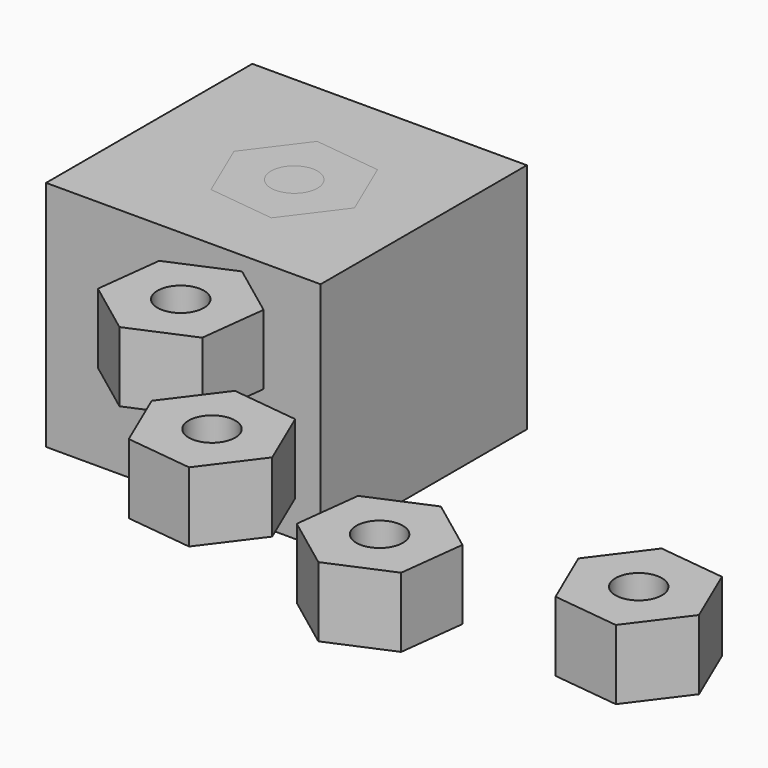
from build123d import *

# Parameters (mm, degrees)
F1_DEPTH = 7.62
F2_R     = 2.54
F3_DEPTH = 25.4
F4_W     = 29.992967
F4_H     = 28.162351
F4_R     = 2.54
F5_DEPTH = 25.4
F8_COUNT = 5
F8_ANGLE = 120


with BuildPart() as f1:
    # F0 (on Top) → F1 (new body)
    with BuildSketch(Plane.XY):
        Polygon((7.280446, -0.870884), (4.394431, 5.869609), (-2.886015, 6.740493), (-7.280446, 0.870884), (-4.394431, -5.869609), (2.886015, -6.740493), align=None)
    extrude(amount=F1_DEPTH)

    # F2 (on face) → F3 (cut)
    with BuildSketch(Plane.XY.offset(7.62)):
        Circle(F2_R)
    extrude(amount=-F3_DEPTH, mode=Mode.SUBTRACT)


with BuildPart() as f5:
    # F4 (on face) → F5 (new body)
    with BuildSketch(Plane.XY.offset(7.62)):
        with Locations((-1.160839, 0.386737)):
            Rectangle(F4_W, F4_H)
        with Locations((-1.160839, 0.386737)):
            Rectangle(F4_W, F4_H)
        Circle(F4_R)
    extrude(amount=-F5_DEPTH)

    # F6: cut F1
    add(f1.part, mode=Mode.SUBTRACT)


with BuildPart() as f8_1:
    # F8: instance of F1
    add(f1.part.rotate(Axis((46.62038, 0, 10.488918), (0, 0, 1)), 1 * F8_ANGLE / (F8_COUNT - 1)))


with BuildPart() as f8_2:
    # F8: instance of F1
    add(f1.part.rotate(Axis((46.62038, 0, 10.488918), (0, 0, 1)), 2 * F8_ANGLE / (F8_COUNT - 1)))


with BuildPart() as f8_3:
    # F8: instance of F1
    add(f1.part.rotate(Axis((46.62038, 0, 10.488918), (0, 0, 1)), 3 * F8_ANGLE / (F8_COUNT - 1)))


with BuildPart() as f8_4:
    # F8: instance of F1
    add(f1.part.rotate(Axis((46.62038, 0, 10.488918), (0, 0, 1)), 4 * F8_ANGLE / (F8_COUNT - 1)))


solid = Compound([f1.part, f5.part, f8_1.part, f8_2.part, f8_3.part, f8_4.part])
